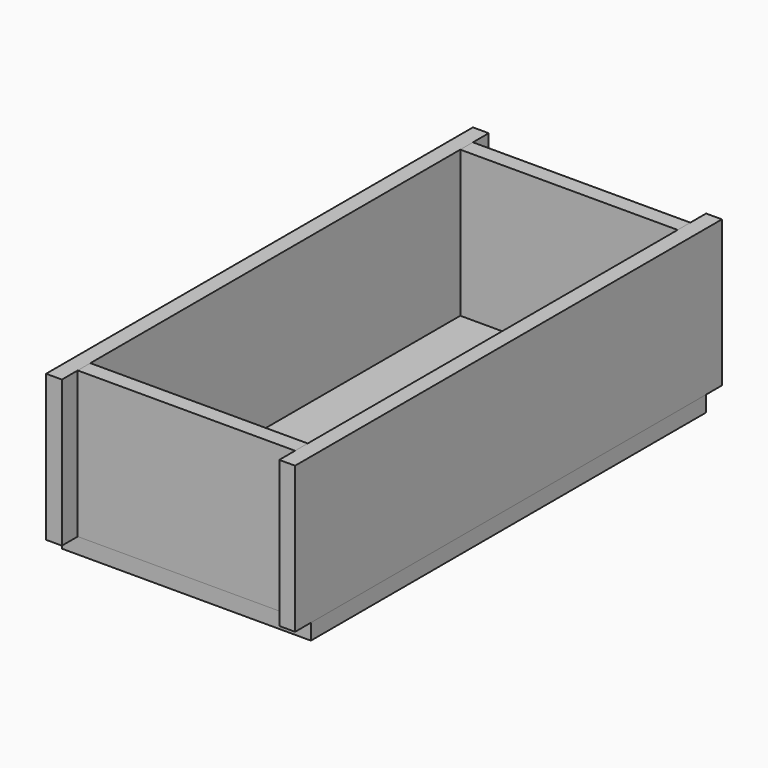
from build123d import *

# Parameters (mm, degrees)
F0_W     = 315
F0_H     = 625
F1_DEPTH = 20
F2_W     = 675
F2_H     = 185
F3_DEPTH = 20
F4_W     = 675
F4_H     = 185
F5_DEPTH = 20
F6_W     = 275
F6_H     = 185
F7_DEPTH = 20
F8_W     = 275
F8_H     = 185
F9_DEPTH = 20


with BuildPart() as f1:
    # F0 (on Top) → F1 (new body)
    with BuildSketch(Plane.XY):
        Rectangle(F0_W, F0_H)
    extrude(amount=F1_DEPTH)


with BuildPart() as f3:
    # F2 (on face) → F3 (new body)
    with BuildSketch(Plane.YZ.offset(157.5)):
        with Locations((0, 112.5)):
            Rectangle(F2_W, F2_H)
    extrude(amount=-F3_DEPTH)


with BuildPart() as f5:
    # F4 (on face) → F5 (new body)
    with BuildSketch(Plane(origin=(-157.5, 0, 0), x_dir=(0, -1, 0), z_dir=(-1, 0, 0))):
        with Locations((0, 112.5)):
            Rectangle(F4_W, F4_H)
    extrude(amount=-F5_DEPTH)


with BuildPart() as f7:
    # F6 (on face) → F7 (new body)
    with BuildSketch(Plane(origin=(0, 312.5, 0), x_dir=(-1, 0, 0), z_dir=(0, 1, 0))):
        with Locations((0, 112.5)):
            Rectangle(F6_W, F6_H)
    extrude(amount=-F7_DEPTH)


with BuildPart() as f9:
    # F8 (on face) → F9 (new body)
    with BuildSketch(Plane.XZ.offset(312.5)):
        with Locations((0, 112.5)):
            Rectangle(F8_W, F8_H)
    extrude(amount=-F9_DEPTH)


solid = Compound([f1.part, f3.part, f5.part, f7.part, f9.part])
